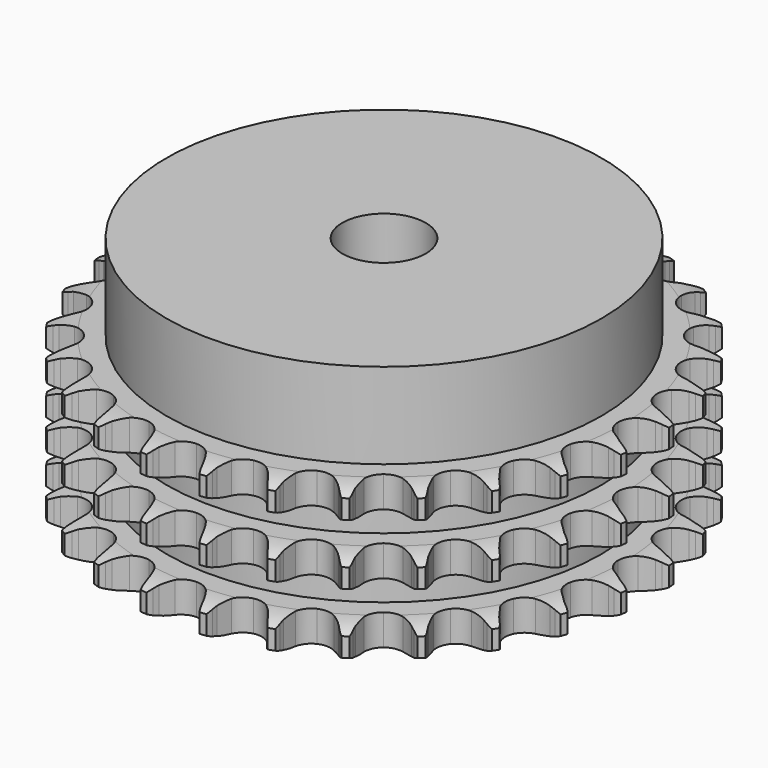
from build123d import *

# Parameters (mm, degrees)
PAD_DEPTH         = 25.6
SKETCH001_R       = 36.5
PAD001_DEPTH      = 40
SKETCH002_R       = 7
POCKET_DEPTH      = 0.001
POCKET_DEPTH_BACK = 40.001


with BuildPart() as part:
    # Sprocket → Pad (new body)
    with BuildSketch(Plane.XY):
        with BuildLine():
            ThreePointArc((-5.081632, 45.100731), (-4.462733, 44.305911), (-4.009624, 43.406207))
            Line((-4.009624, 43.406207), (-3.700215, 42.606137))
            ThreePointArc((-3.700215, 42.606137), (-3.207694, 41.556761), (-2.573921, 40.586143))
            ThreePointArc((-2.573921, 40.586143), (-1.437158, 39.644298), (0, 39.306838))
            ThreePointArc((0, 39.306838), (1.437158, 39.644298), (2.573921, 40.586143))
            ThreePointArc((2.573921, 40.586143), (3.207694, 41.556761), (3.700215, 42.606137))
            Line((3.700215, 42.606137), (4.009624, 43.406207))
            ThreePointArc((4.009624, 43.406207), (4.462733, 44.305911), (5.081632, 45.100731))
            ThreePointArc((5.081632, 45.100731), (5.508149, 44.188121), (5.749696, 43.210148))
            Line((5.749696, 43.210148), (5.873315, 42.361288))
            ThreePointArc((5.873315, 42.361288), (6.119979, 41.228626), (6.521879, 40.141315))
            ThreePointArc((6.521879, 40.141315), (7.420561, 38.970131), (8.746594, 38.321333))
            ThreePointArc((8.746594, 38.321333), (10.222812, 38.330535), (11.540654, 38.995813))
            Line((11.540654, 38.995813), (13.0882, 40.714537))
            ThreePointArc((13.0882, 40.714537), (13.318858, 41.076312), (13.567884, 41.425697))
            ThreePointArc((13.567884, 41.425697), (14.209836, 42.202017), (14.990082, 42.839192))
            ThreePointArc((14.990082, 42.839192), (15.20283, 41.854554), (15.220701, 40.847352))
            Line((15.220701, 40.847352), (15.152332, 39.992266))
            ThreePointArc((15.152332, 39.992266), (15.140771, 38.833114), (15.290645, 37.683634))
            ThreePointArc((15.290645, 37.683634), (15.906182, 36.341838), (17.054598, 35.414237))
            ThreePointArc((17.054598, 35.414237), (18.495851, 35.094719), (19.92869, 35.450069))
            Line((19.92869, 35.450069), (21.819889, 36.78134))
            ThreePointArc((21.819889, 36.78134), (22.125266, 37.082718), (22.445794, 37.36793))
            ThreePointArc((22.445794, 37.36793), (23.244398, 37.981939), (24.146866, 38.429517))
            ThreePointArc((24.146866, 38.429517), (24.135178, 37.422225), (23.928477, 36.436299))
            Line((23.928477, 36.436299), (23.671548, 35.617866))
            ThreePointArc((23.671548, 35.617866), (23.402341, 34.490349), (23.292674, 33.336338))
            ThreePointArc((23.292674, 33.336338), (23.5942, 31.891214), (24.507413, 30.731323))
            ThreePointArc((24.507413, 30.731323), (25.841431, 30.099107), (27.317419, 30.126711))
            Line((27.317419, 30.126711), (29.457437, 31.003773))
            ThreePointArc((29.457437, 31.003773), (29.822221, 31.229642), (30.198177, 31.43638))
            ThreePointArc((30.198177, 31.43638), (31.113389, 31.857287), (32.092826, 32.092826))
            ThreePointArc((32.092826, 32.092826), (31.857287, 31.113389), (31.43638, 30.198177))
            Line((31.43638, 30.198177), (31.003773, 29.457437))
            ThreePointArc((31.003773, 29.457437), (30.49042, 28.418093), (30.126711, 27.317419))
            ThreePointArc((30.126711, 27.317419), (30.099107, 25.841431), (30.731323, 24.507413))
            ThreePointArc((30.731323, 24.507413), (31.891214, 23.5942), (33.336338, 23.292674))
            Line((33.336338, 23.292674), (35.617866, 23.671548))
            ThreePointArc((35.617866, 23.671548), (36.023764, 23.810581), (36.436299, 23.928477))
            ThreePointArc((36.436299, 23.928477), (37.422225, 24.135178), (38.429517, 24.146866))
            ThreePointArc((38.429517, 24.146866), (37.981939, 23.244398), (37.36793, 22.445794))
            Line((37.36793, 22.445794), (36.78134, 21.819889))
            ThreePointArc((36.78134, 21.819889), (36.049582, 20.920835), (35.450069, 19.92869))
            ThreePointArc((35.450069, 19.92869), (35.094719, 18.495851), (35.414237, 17.054598))
            ThreePointArc((35.414237, 17.054598), (36.341838, 15.906182), (37.683634, 15.290645))
            Line((37.683634, 15.290645), (39.992266, 15.152332))
            ThreePointArc((39.992266, 15.152332), (40.418926, 15.197559), (40.847352, 15.220701))
            ThreePointArc((40.847352, 15.220701), (41.854554, 15.20283), (42.839192, 14.990082))
            ThreePointArc((42.839192, 14.990082), (42.202017, 14.209836), (41.425697, 13.567884))
            Line((41.425697, 13.567884), (40.714537, 13.0882))
            ThreePointArc((40.714537, 13.0882), (39.801067, 12.37452), (38.995813, 11.540654))
            ThreePointArc((38.995813, 11.540654), (38.330535, 10.222812), (38.321333, 8.746594))
            ThreePointArc((38.321333, 8.746594), (38.970131, 7.420561), (40.141315, 6.521879))
            Line((40.141315, 6.521879), (42.361288, 5.873315))
            ThreePointArc((42.361288, 5.873315), (42.787314, 5.822467), (43.210148, 5.749696))
            ThreePointArc((43.210148, 5.749696), (44.188121, 5.508149), (45.100731, 5.081632))
            ThreePointArc((45.100731, 5.081632), (44.305911, 4.462733), (43.406207, 4.009624))
            Line((43.406207, 4.009624), (42.606137, 3.700215))
            ThreePointArc((42.606137, 3.700215), (41.556761, 3.207694), (40.586143, 2.573921))
            ThreePointArc((40.586143, 2.573921), (39.644298, 1.437158), (39.306838, 0))
            ThreePointArc((39.306838, 0), (39.644298, -1.437158), (40.586143, -2.573921))
            Line((40.586143, -2.573921), (42.606137, -3.700215))
            ThreePointArc((42.606137, -3.700215), (43.010168, -3.844588), (43.406207, -4.009624))
            ThreePointArc((43.406207, -4.009624), (44.305911, -4.462733), (45.100731, -5.081632))
            ThreePointArc((45.100731, -5.081632), (44.188121, -5.508149), (43.210148, -5.749696))
            Line((43.210148, -5.749696), (42.361288, -5.873315))
            ThreePointArc((42.361288, -5.873315), (41.228626, -6.119979), (40.141315, -6.521879))
            ThreePointArc((40.141315, -6.521879), (38.970131, -7.420561), (38.321333, -8.746594))
            ThreePointArc((38.321333, -8.746594), (38.330535, -10.222812), (38.995813, -11.540654))
            Line((38.995813, -11.540654), (40.714537, -13.0882))
            ThreePointArc((40.714537, -13.0882), (41.076312, -13.318858), (41.425697, -13.567884))
            ThreePointArc((41.425697, -13.567884), (42.202017, -14.209836), (42.839192, -14.990082))
            ThreePointArc((42.839192, -14.990082), (41.854554, -15.20283), (40.847352, -15.220701))
            Line((40.847352, -15.220701), (39.992266, -15.152332))
            ThreePointArc((39.992266, -15.152332), (38.833114, -15.140771), (37.683634, -15.290645))
            ThreePointArc((37.683634, -15.290645), (36.341838, -15.906182), (35.414237, -17.054598))
            ThreePointArc((35.414237, -17.054598), (35.094719, -18.495851), (35.450069, -19.92869))
            Line((35.450069, -19.92869), (36.78134, -21.819889))
            ThreePointArc((36.78134, -21.819889), (37.082718, -22.125266), (37.36793, -22.445794))
            ThreePointArc((37.36793, -22.445794), (37.981939, -23.244398), (38.429517, -24.146866))
            ThreePointArc((38.429517, -24.146866), (37.422225, -24.135178), (36.436299, -23.928477))
            Line((36.436299, -23.928477), (35.617866, -23.671548))
            ThreePointArc((35.617866, -23.671548), (34.490349, -23.402341), (33.336338, -23.292674))
            ThreePointArc((33.336338, -23.292674), (31.891214, -23.5942), (30.731323, -24.507413))
            ThreePointArc((30.731323, -24.507413), (30.099107, -25.841431), (30.126711, -27.317419))
            Line((30.126711, -27.317419), (31.003773, -29.457437))
            ThreePointArc((31.003773, -29.457437), (31.229642, -29.822221), (31.43638, -30.198177))
            ThreePointArc((31.43638, -30.198177), (31.857287, -31.113389), (32.092826, -32.092826))
            ThreePointArc((32.092826, -32.092826), (31.113389, -31.857287), (30.198177, -31.43638))
            Line((30.198177, -31.43638), (29.457437, -31.003773))
            ThreePointArc((29.457437, -31.003773), (28.418093, -30.49042), (27.317419, -30.126711))
            ThreePointArc((27.317419, -30.126711), (25.841431, -30.099107), (24.507413, -30.731323))
            ThreePointArc((24.507413, -30.731323), (23.5942, -31.891214), (23.292674, -33.336338))
            Line((23.292674, -33.336338), (23.671548, -35.617866))
            ThreePointArc((23.671548, -35.617866), (23.810581, -36.023764), (23.928477, -36.436299))
            ThreePointArc((23.928477, -36.436299), (24.135178, -37.422225), (24.146866, -38.429517))
            ThreePointArc((24.146866, -38.429517), (23.244398, -37.981939), (22.445794, -37.36793))
            Line((22.445794, -37.36793), (21.819889, -36.78134))
            ThreePointArc((21.819889, -36.78134), (20.920835, -36.049582), (19.92869, -35.450069))
            ThreePointArc((19.92869, -35.450069), (18.495851, -35.094719), (17.054598, -35.414237))
            ThreePointArc((17.054598, -35.414237), (15.906182, -36.341838), (15.290645, -37.683634))
            Line((15.290645, -37.683634), (15.152332, -39.992266))
            ThreePointArc((15.152332, -39.992266), (15.197559, -40.418926), (15.220701, -40.847352))
            ThreePointArc((15.220701, -40.847352), (15.20283, -41.854554), (14.990082, -42.839192))
            ThreePointArc((14.990082, -42.839192), (14.209836, -42.202017), (13.567884, -41.425697))
            Line((13.567884, -41.425697), (13.0882, -40.714537))
            ThreePointArc((13.0882, -40.714537), (12.37452, -39.801067), (11.540654, -38.995813))
            ThreePointArc((11.540654, -38.995813), (10.222812, -38.330535), (8.746594, -38.321333))
            ThreePointArc((8.746594, -38.321333), (7.420561, -38.970131), (6.521879, -40.141315))
            Line((6.521879, -40.141315), (5.873315, -42.361288))
            ThreePointArc((5.873315, -42.361288), (5.822467, -42.787314), (5.749696, -43.210148))
            ThreePointArc((5.749696, -43.210148), (5.508149, -44.188121), (5.081632, -45.100731))
            ThreePointArc((5.081632, -45.100731), (4.462733, -44.305911), (4.009624, -43.406207))
            Line((4.009624, -43.406207), (3.700215, -42.606137))
            ThreePointArc((3.700215, -42.606137), (3.207694, -41.556761), (2.573921, -40.586143))
            ThreePointArc((2.573921, -40.586143), (1.437158, -39.644298), (0, -39.306838))
            ThreePointArc((0, -39.306838), (-1.437158, -39.644298), (-2.573921, -40.586143))
            Line((-2.573921, -40.586143), (-3.700215, -42.606137))
            ThreePointArc((-3.700215, -42.606137), (-3.844588, -43.010168), (-4.009624, -43.406207))
            ThreePointArc((-4.009624, -43.406207), (-4.462733, -44.305911), (-5.081632, -45.100731))
            ThreePointArc((-5.081632, -45.100731), (-5.508149, -44.188121), (-5.749696, -43.210148))
            Line((-5.749696, -43.210148), (-5.873315, -42.361288))
            ThreePointArc((-5.873315, -42.361288), (-6.119979, -41.228626), (-6.521879, -40.141315))
            ThreePointArc((-6.521879, -40.141315), (-7.420561, -38.970131), (-8.746594, -38.321333))
            ThreePointArc((-8.746594, -38.321333), (-10.222812, -38.330535), (-11.540654, -38.995813))
            Line((-11.540654, -38.995813), (-13.0882, -40.714537))
            ThreePointArc((-13.0882, -40.714537), (-13.318858, -41.076312), (-13.567884, -41.425697))
            ThreePointArc((-13.567884, -41.425697), (-14.209836, -42.202017), (-14.990082, -42.839192))
            ThreePointArc((-14.990082, -42.839192), (-15.20283, -41.854554), (-15.220701, -40.847352))
            Line((-15.220701, -40.847352), (-15.152332, -39.992266))
            ThreePointArc((-15.152332, -39.992266), (-15.140771, -38.833114), (-15.290645, -37.683634))
            ThreePointArc((-15.290645, -37.683634), (-15.906182, -36.341838), (-17.054598, -35.414237))
            ThreePointArc((-17.054598, -35.414237), (-18.495851, -35.094719), (-19.92869, -35.450069))
            Line((-19.92869, -35.450069), (-21.819889, -36.78134))
            ThreePointArc((-21.819889, -36.78134), (-22.125266, -37.082718), (-22.445794, -37.36793))
            ThreePointArc((-22.445794, -37.36793), (-23.244398, -37.981939), (-24.146866, -38.429517))
            ThreePointArc((-24.146866, -38.429517), (-24.135178, -37.422225), (-23.928477, -36.436299))
            Line((-23.928477, -36.436299), (-23.671548, -35.617866))
            ThreePointArc((-23.671548, -35.617866), (-23.402341, -34.490349), (-23.292674, -33.336338))
            ThreePointArc((-23.292674, -33.336338), (-23.5942, -31.891214), (-24.507413, -30.731323))
            ThreePointArc((-24.507413, -30.731323), (-25.841431, -30.099107), (-27.317419, -30.126711))
            Line((-27.317419, -30.126711), (-29.457437, -31.003773))
            ThreePointArc((-29.457437, -31.003773), (-29.822221, -31.229642), (-30.198177, -31.43638))
            ThreePointArc((-30.198177, -31.43638), (-31.113389, -31.857287), (-32.092826, -32.092826))
            ThreePointArc((-32.092826, -32.092826), (-31.857287, -31.113389), (-31.43638, -30.198177))
            Line((-31.43638, -30.198177), (-31.003773, -29.457437))
            ThreePointArc((-31.003773, -29.457437), (-30.49042, -28.418093), (-30.126711, -27.317419))
            ThreePointArc((-30.126711, -27.317419), (-30.099107, -25.841431), (-30.731323, -24.507413))
            ThreePointArc((-30.731323, -24.507413), (-31.891214, -23.5942), (-33.336338, -23.292674))
            Line((-33.336338, -23.292674), (-35.617866, -23.671548))
            ThreePointArc((-35.617866, -23.671548), (-36.023764, -23.810581), (-36.436299, -23.928477))
            ThreePointArc((-36.436299, -23.928477), (-37.422225, -24.135178), (-38.429517, -24.146866))
            ThreePointArc((-38.429517, -24.146866), (-37.981939, -23.244398), (-37.36793, -22.445794))
            Line((-37.36793, -22.445794), (-36.78134, -21.819889))
            ThreePointArc((-36.78134, -21.819889), (-36.049582, -20.920835), (-35.450069, -19.92869))
            ThreePointArc((-35.450069, -19.92869), (-35.094719, -18.495851), (-35.414237, -17.054598))
            ThreePointArc((-35.414237, -17.054598), (-36.341838, -15.906182), (-37.683634, -15.290645))
            Line((-37.683634, -15.290645), (-39.992266, -15.152332))
            ThreePointArc((-39.992266, -15.152332), (-40.418926, -15.197559), (-40.847352, -15.220701))
            ThreePointArc((-40.847352, -15.220701), (-41.854554, -15.20283), (-42.839192, -14.990082))
            ThreePointArc((-42.839192, -14.990082), (-42.202017, -14.209836), (-41.425697, -13.567884))
            Line((-41.425697, -13.567884), (-40.714537, -13.0882))
            ThreePointArc((-40.714537, -13.0882), (-39.801067, -12.37452), (-38.995813, -11.540654))
            ThreePointArc((-38.995813, -11.540654), (-38.330535, -10.222812), (-38.321333, -8.746594))
            ThreePointArc((-38.321333, -8.746594), (-38.970131, -7.420561), (-40.141315, -6.521879))
            Line((-40.141315, -6.521879), (-42.361288, -5.873315))
            ThreePointArc((-42.361288, -5.873315), (-42.787314, -5.822467), (-43.210148, -5.749696))
            ThreePointArc((-43.210148, -5.749696), (-44.188121, -5.508149), (-45.100731, -5.081632))
            ThreePointArc((-45.100731, -5.081632), (-44.305911, -4.462733), (-43.406207, -4.009624))
            Line((-43.406207, -4.009624), (-42.606137, -3.700215))
            ThreePointArc((-42.606137, -3.700215), (-41.556761, -3.207694), (-40.586143, -2.573921))
            ThreePointArc((-40.586143, -2.573921), (-39.644298, -1.437158), (-39.306838, 0))
            ThreePointArc((-39.306838, 0), (-39.644298, 1.437158), (-40.586143, 2.573921))
            Line((-40.586143, 2.573921), (-42.606137, 3.700215))
            ThreePointArc((-42.606137, 3.700215), (-43.010168, 3.844588), (-43.406207, 4.009624))
            ThreePointArc((-43.406207, 4.009624), (-44.305911, 4.462733), (-45.100731, 5.081632))
            ThreePointArc((-45.100731, 5.081632), (-44.188121, 5.508149), (-43.210148, 5.749696))
            Line((-43.210148, 5.749696), (-42.361288, 5.873315))
            ThreePointArc((-42.361288, 5.873315), (-41.228626, 6.119979), (-40.141315, 6.521879))
            ThreePointArc((-40.141315, 6.521879), (-38.970131, 7.420561), (-38.321333, 8.746594))
            ThreePointArc((-38.321333, 8.746594), (-38.330535, 10.222812), (-38.995813, 11.540654))
            Line((-38.995813, 11.540654), (-40.714537, 13.0882))
            ThreePointArc((-40.714537, 13.0882), (-41.076312, 13.318858), (-41.425697, 13.567884))
            ThreePointArc((-41.425697, 13.567884), (-42.202017, 14.209836), (-42.839192, 14.990082))
            ThreePointArc((-42.839192, 14.990082), (-41.854554, 15.20283), (-40.847352, 15.220701))
            Line((-40.847352, 15.220701), (-39.992266, 15.152332))
            ThreePointArc((-39.992266, 15.152332), (-38.833114, 15.140771), (-37.683634, 15.290645))
            ThreePointArc((-37.683634, 15.290645), (-36.341838, 15.906182), (-35.414237, 17.054598))
            ThreePointArc((-35.414237, 17.054598), (-35.094719, 18.495851), (-35.450069, 19.92869))
            Line((-35.450069, 19.92869), (-36.78134, 21.819889))
            ThreePointArc((-36.78134, 21.819889), (-37.082718, 22.125266), (-37.36793, 22.445794))
            ThreePointArc((-37.36793, 22.445794), (-37.981939, 23.244398), (-38.429517, 24.146866))
            ThreePointArc((-38.429517, 24.146866), (-37.422225, 24.135178), (-36.436299, 23.928477))
            Line((-36.436299, 23.928477), (-35.617866, 23.671548))
            ThreePointArc((-35.617866, 23.671548), (-34.490349, 23.402341), (-33.336338, 23.292674))
            ThreePointArc((-33.336338, 23.292674), (-31.891214, 23.5942), (-30.731323, 24.507413))
            ThreePointArc((-30.731323, 24.507413), (-30.099107, 25.841431), (-30.126711, 27.317419))
            Line((-30.126711, 27.317419), (-31.003773, 29.457437))
            ThreePointArc((-31.003773, 29.457437), (-31.229642, 29.822221), (-31.43638, 30.198177))
            ThreePointArc((-31.43638, 30.198177), (-31.857287, 31.113389), (-32.092826, 32.092826))
            ThreePointArc((-32.092826, 32.092826), (-31.113389, 31.857287), (-30.198177, 31.43638))
            Line((-30.198177, 31.43638), (-29.457437, 31.003773))
            ThreePointArc((-29.457437, 31.003773), (-28.418093, 30.49042), (-27.317419, 30.126711))
            ThreePointArc((-27.317419, 30.126711), (-25.841431, 30.099107), (-24.507413, 30.731323))
            ThreePointArc((-24.507413, 30.731323), (-23.5942, 31.891214), (-23.292674, 33.336338))
            Line((-23.292674, 33.336338), (-23.671548, 35.617866))
            ThreePointArc((-23.671548, 35.617866), (-23.810581, 36.023764), (-23.928477, 36.436299))
            ThreePointArc((-23.928477, 36.436299), (-24.135178, 37.422225), (-24.146866, 38.429517))
            ThreePointArc((-24.146866, 38.429517), (-23.244398, 37.981939), (-22.445794, 37.36793))
            Line((-22.445794, 37.36793), (-21.819889, 36.78134))
            ThreePointArc((-21.819889, 36.78134), (-20.920835, 36.049582), (-19.92869, 35.450069))
            ThreePointArc((-19.92869, 35.450069), (-18.495851, 35.094719), (-17.054598, 35.414237))
            ThreePointArc((-17.054598, 35.414237), (-15.906182, 36.341838), (-15.290645, 37.683634))
            Line((-15.290645, 37.683634), (-15.152332, 39.992266))
            ThreePointArc((-15.152332, 39.992266), (-15.197559, 40.418926), (-15.220701, 40.847352))
            ThreePointArc((-15.220701, 40.847352), (-15.20283, 41.854554), (-14.990082, 42.839192))
            ThreePointArc((-14.990082, 42.839192), (-14.209836, 42.202017), (-13.567884, 41.425697))
            Line((-13.567884, 41.425697), (-13.0882, 40.714537))
            ThreePointArc((-13.0882, 40.714537), (-12.37452, 39.801067), (-11.540654, 38.995813))
            ThreePointArc((-11.540654, 38.995813), (-10.222812, 38.330535), (-8.746594, 38.321333))
            ThreePointArc((-8.746594, 38.321333), (-7.420561, 38.970131), (-6.521879, 40.141315))
            Line((-6.521879, 40.141315), (-5.873315, 42.361288))
            ThreePointArc((-5.873315, 42.361288), (-5.822467, 42.787314), (-5.749696, 43.210148))
            ThreePointArc((-5.749696, 43.210148), (-5.508149, 44.188121), (-5.081632, 45.100731))
        make_face()
    extrude(amount=PAD_DEPTH)

    # Sketch → Groove (revolve, cut)
    with BuildSketch(Plane.XZ):
        with BuildLine():
            ThreePointArc((40.141101, 0), (42.377169, 0.253206), (44.5, 1))
            Line((44.5, 1), (44.5, 4.2))
            ThreePointArc((44.5, 4.2), (42.377169, 4.946794), (40.141101, 5.2))
            Line((36.5, 5.2), (40.141101, 5.2))
            Line((36.5, 5.2), (36.5, 10.2))
            Line((36.5, 10.2), (40.141101, 10.2))
            ThreePointArc((40.141101, 10.2), (42.377169, 10.453206), (44.5, 11.2))
            Line((44.5, 14.4), (44.5, 11.2))
            ThreePointArc((44.5, 14.4), (42.377169, 15.146794), (40.141101, 15.4))
            Line((36.5, 15.4), (40.141101, 15.4))
            Line((36.5, 20.4), (36.5, 15.4))
            Line((40.141101, 20.4), (36.5, 20.4))
            ThreePointArc((40.141101, 20.4), (42.377169, 20.653206), (44.5, 21.4))
            Line((44.5, 21.4), (44.5, 24.6))
            ThreePointArc((44.5, 24.6), (42.377169, 25.346794), (40.141101, 25.6))
            Line((40.141101, 25.6), (54.5, 25.6))
            Line((54.5, 25.6), (54.5, 0))
            Line((40.141101, 0), (54.5, 0))
        make_face()
    revolve(axis=Axis((0, 0, 0), (0, 0, 1)), mode=Mode.SUBTRACT)

    # Sketch001 → Pad001 (join)
    with BuildSketch(Plane.XY):
        Circle(SKETCH001_R)
    extrude(amount=PAD001_DEPTH)

    # Sketch002 → Pocket (cut, two sides)
    with BuildSketch(Plane.XY) as pocket_sk:
        Circle(SKETCH002_R)
    extrude(amount=-POCKET_DEPTH, mode=Mode.SUBTRACT)
    extrude(pocket_sk.sketch, amount=POCKET_DEPTH_BACK, mode=Mode.SUBTRACT)


solid = part.part
